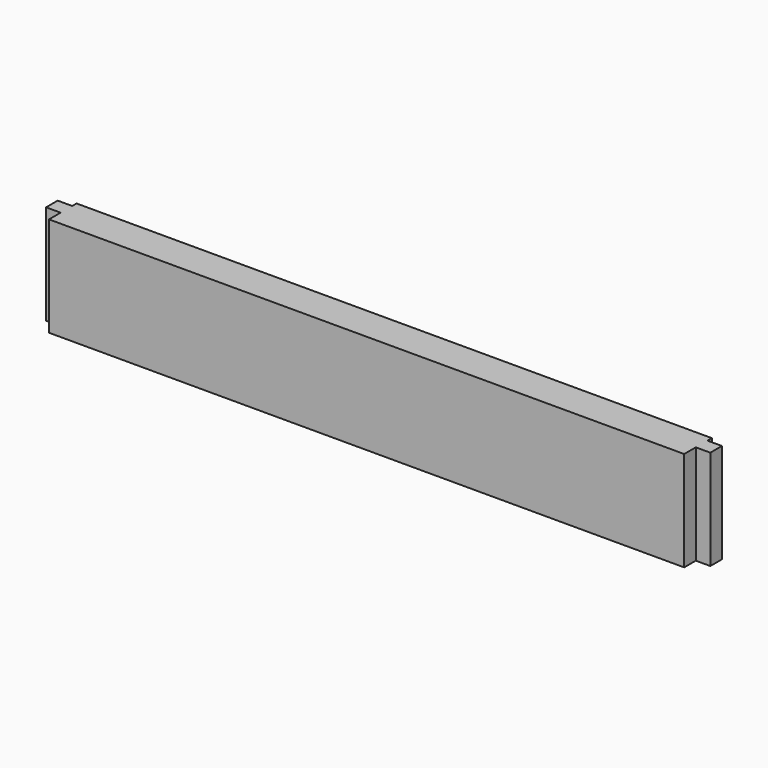
from build123d import *

# Parameters (mm, degrees)
F0_W     = 366
F0_H     = 55
F1_DEPTH = 19
F2_W     = 8
F2_H     = 55
F2_W_2   = 3
F3_DEPTH = 8
F4_W     = 8
F4_H     = 55
F4_W_2   = 3
F5_DEPTH = 8


with BuildPart() as f1:
    # F0 (on Front) → F1 (new body)
    with BuildSketch(Plane.XZ):
        Rectangle(F0_W, F0_H)
    extrude(amount=F1_DEPTH)

    # F2 (on face) → F3 (cut)
    with BuildSketch(Plane.YZ.offset(183)):
        with Locations((-15, 0)):
            Rectangle(F2_W, F2_H)
        with Locations((-1.5, 0)):
            Rectangle(F2_W_2, F2_H)
    extrude(amount=-F3_DEPTH, mode=Mode.SUBTRACT)

    # F4 (on face) → F5 (cut)
    with BuildSketch(Plane(origin=(-183, 0, 0), x_dir=(0, -1, 0), z_dir=(-1, 0, 0))):
        with Locations((15, 0)):
            Rectangle(F4_W, F4_H)
        with Locations((1.5, 0)):
            Rectangle(F4_W_2, F4_H)
    extrude(amount=-F5_DEPTH, mode=Mode.SUBTRACT)


solid = f1.part
